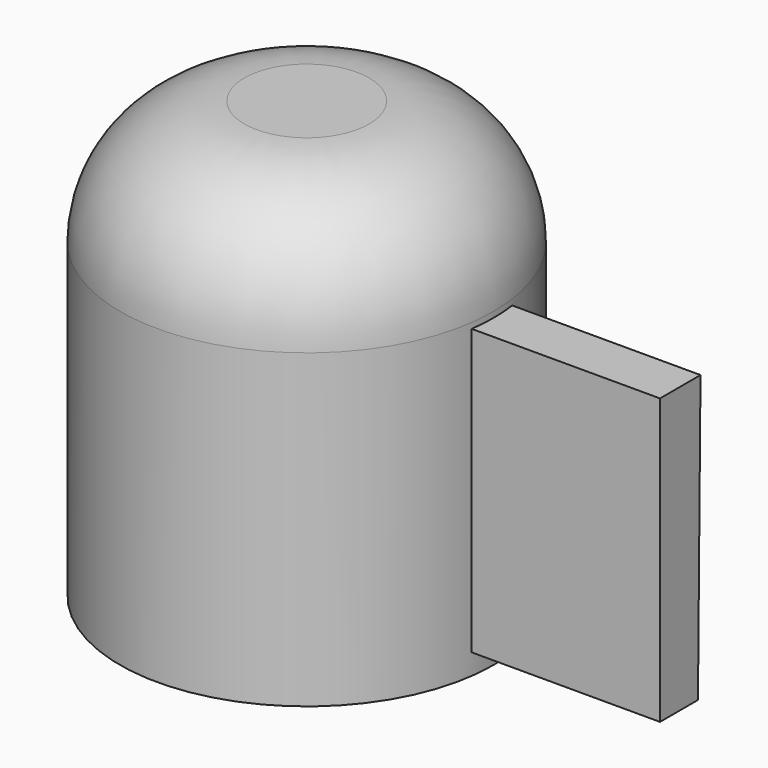
from build123d import *

# Parameters (mm, degrees)
F0_R     = 38.131221
F1_DEPTH = 88.9
F2_R     = 25.4
F4_DEPTH = 76.2


with BuildPart() as f1:
    # F0 (on Top) → F1 (new body)
    with BuildSketch(Plane.XY):
        Circle(F0_R)
    extrude(amount=F1_DEPTH)

    # F2
    f2_edges = [f1.edges().sort_by_distance(p)[0] for p in [
        (-38.131221, 0, 88.9),
    ]]
    fillet(f2_edges, radius=F2_R)

    # F3 (on Right) → F4 (join)
    with BuildSketch(Plane.YZ):
        Polygon((4.519497, 4.251661), (5.16514, 62.359482), (-5.165141, 62.359482), (-5.165141, 4.251661), align=None)
    extrude(amount=F4_DEPTH)


solid = f1.part
